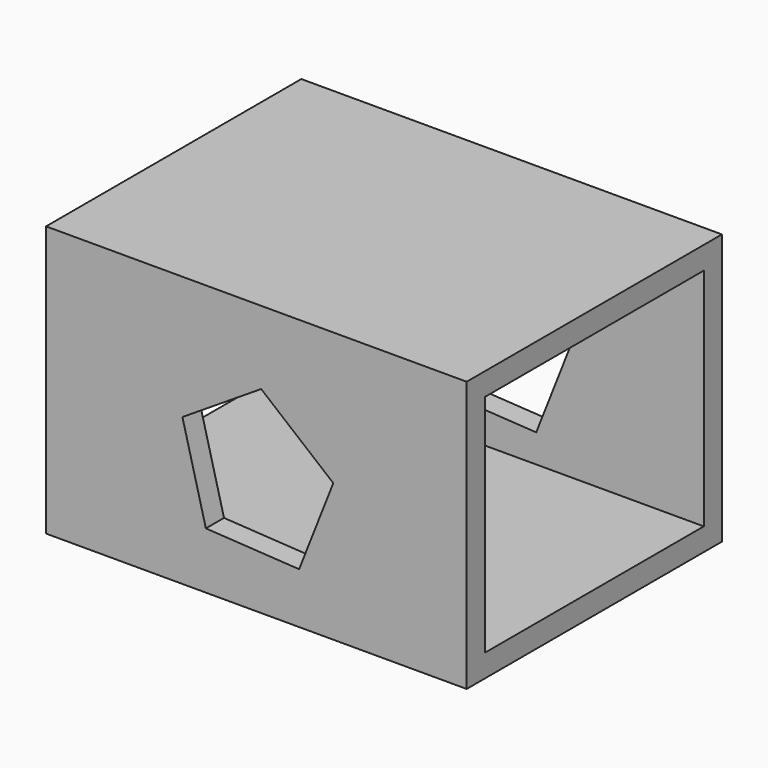
from build123d import *

# Parameters (mm, degrees)
F0_W     = 89.4021987915
F0_H     = 75.7953710854
F2_DEPTH = 117.856964469
F3_W     = 76.7021987915
F3_H     = 63.0953710854
F4_DEPTH = 168.5473639518
F6_DEPTH = 108.4326226264


with BuildPart() as f2:
    # F0 (on Right) → F2 (new body)
    with BuildSketch(Plane.YZ):
        with Locations((44.7010993958, 4.8550125211)):
            Rectangle(F0_W, F0_H)
    extrude(amount=F2_DEPTH)

    # F3 (on face) → F4 (cut)
    with BuildSketch(Plane.YZ.offset(117.856964469)):
        with Locations((44.7010993958, 4.8550125211)):
            Rectangle(F3_W, F3_H)
    extrude(amount=-F4_DEPTH, mode=Mode.SUBTRACT)

    # F5 (on face) → F6 (cut)
    with BuildSketch(Plane.XZ):
        Polygon((70.9031159894, -18.7701933731), (80.4803622858, 5.5882447229), (60.2736428727, 22.2239185493), (38.2079571779, 8.1468923038), (44.7773328466, -17.1888622029), align=None)
        Polygon((70.9031159894, -18.7701933731), (80.4803622858, 5.5882447229), (60.2736428727, 22.2239185493), (38.2079571779, 8.1468923038), (44.7773328466, -17.1888622029), align=None)
    extrude(amount=-F6_DEPTH, mode=Mode.SUBTRACT)


solid = f2.part
